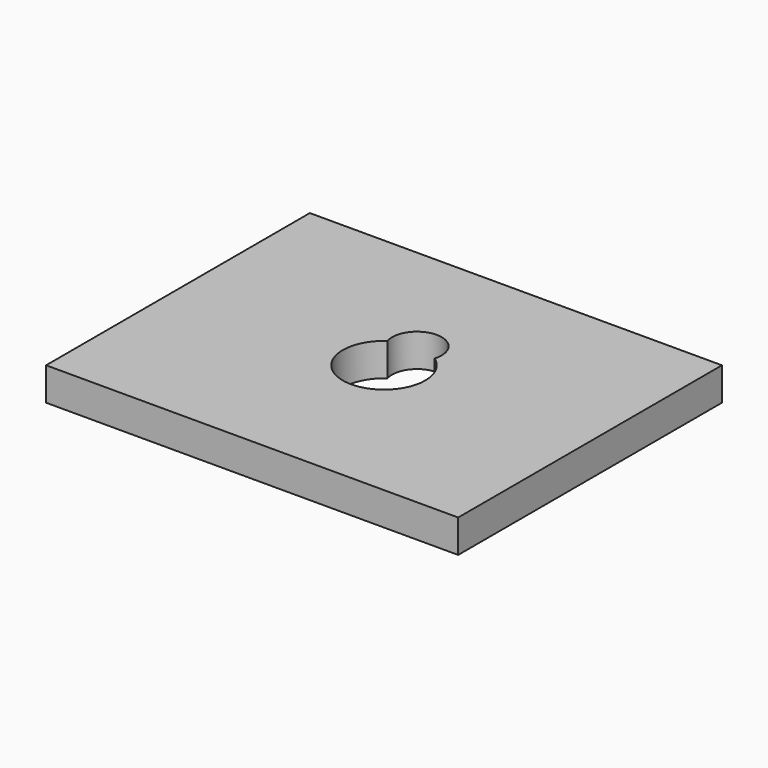
from build123d import *

# Parameters (mm, degrees)
F0_W     = 63.5
F0_H     = 50.8
F1_DEPTH = 5.08
F3_DEPTH = 5.081


with BuildPart() as f1:
    # F0 (on Top) → F1 (new body)
    with BuildSketch(Plane.XY):
        Rectangle(F0_W, F0_H)
    extrude(amount=F1_DEPTH)

    # F2 (on face) → F3 (cut, through all)
    with BuildSketch(Plane.XY.offset(5.08)):
        with BuildLine():
            ThreePointArc((3.6345083574, 5.207), (0, 2.54), (-3.6345083574, 5.207))
            ThreePointArc((-3.6345083574, 5.207), (-2.9362707582, -5.6303475945), (6.35, 0))
            ThreePointArc((6.35, 0), (5.6303475945, 2.9362707582), (3.6345083574, 5.207))
        make_face()
        with BuildLine():
            ThreePointArc((3.6345083574, 5.207), (3.7658715354, 5.7718031657), (3.81, 6.35))
            ThreePointArc((3.81, 6.35), (-0.5781968343, 10.1158715354), (-3.6345083574, 5.207))
            ThreePointArc((-3.6345083574, 5.207), (0, 6.35), (3.6345083574, 5.207))
        make_face()
        with BuildLine():
            ThreePointArc((3.6345083574, 5.207), (0, 6.35), (-3.6345083574, 5.207))
            ThreePointArc((-3.6345083574, 5.207), (0, 2.54), (3.6345083574, 5.207))
        make_face()
    extrude(amount=-F3_DEPTH, mode=Mode.SUBTRACT)


solid = f1.part
